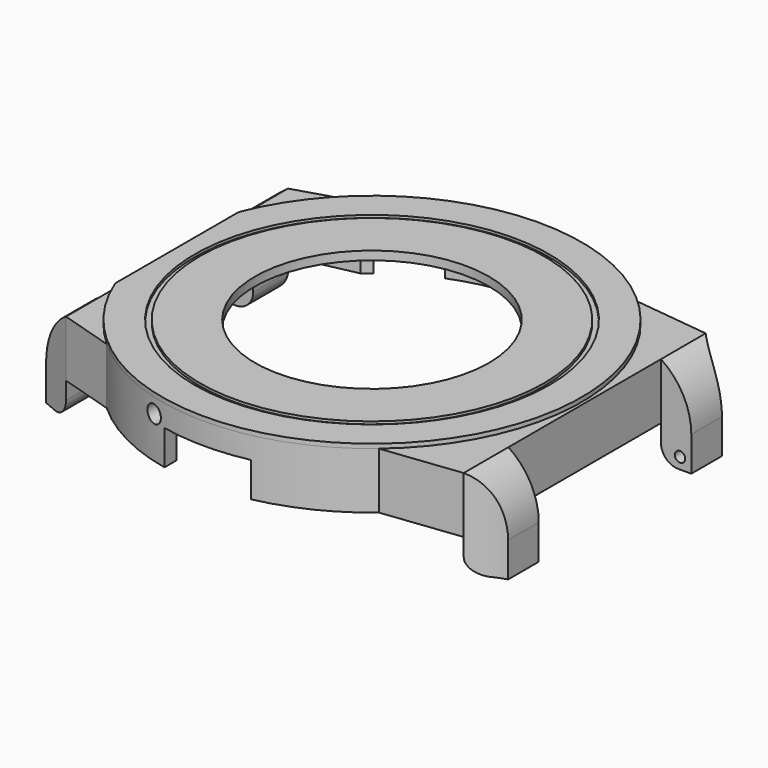
from build123d import *

# Parameters (mm, degrees)
PAD_DEPTH            = 6.5
POCKET_DEPTH         = 6
SKETCH002_R          = 13.5
POCKET001_DEPTH      = 1
SKETCH003_W          = 6.45
SKETCH003_H          = 6.5
PAD001_DEPTH         = 3.5
POCKET002_DEPTH      = 10
SKETCH010_W          = 5
SKETCH010_H          = 6.5
PAD002_DEPTH         = 3.5
POCKET005_DEPTH      = 10
SKETCH015_R          = 2.2
SKETCH015_R_2        = 1.025
PAD003_DEPTH         = 2
POCKET009_DEPTH      = 4
POCKET010_DEPTH      = 4
PAD004_DEPTH         = 4
POCKET013_DEPTH      = 13.201
POCKET013_DEPTH_BACK = 35.201
SKETCH022_R          = 0.6
POCKET014_DEPTH      = 2
SKETCH023_R          = 0.6
POCKET015_DEPTH      = 2
SKETCH024_R          = 13.5
PAD005_DEPTH         = 0.5
SKETCH025_R          = 20.45
SKETCH025_R_2        = 19.85
POCKET016_DEPTH      = 0.3
SKETCH026_R          = 1
POCKET017_DEPTH      = 5


with BuildPart() as part:
    # Sketch → Pad (new body)
    with BuildSketch(Plane.XY):
        with BuildLine():
            Line((-22.5019915649, 16), (-22.5019915649, -16))
            Line((-22.5019915649, -16), (-16.2858834578, -17.9))
            ThreePointArc((-16.2858834578, -17.9), (-0.4552796053, -24.1957169863), (15.6009615088, -18.5))
            Line((15.6009615088, -18.5), (24.5395016581, -17.45))
            Line((24.5395016581, 17.45), (24.5395016581, -17.45))
            Line((15.6009615088, 18.5), (24.5395016581, 17.45))
            ThreePointArc((15.6009615088, 18.5), (-0.4552796053, 24.1957169863), (-16.2858834578, 17.9))
            Line((-22.5019915649, 16), (-16.2858834578, 17.9))
        make_face()
    extrude(amount=PAD_DEPTH)

    # Sketch001 → Pocket (cut)
    with BuildSketch(Plane.XY):
        with BuildLine():
            Line((-14.8539557021, 16.9), (-21.2122180433, 15.55))
            Line((-21.2122180433, 15.55), (-21.2122180433, -15.55))
            Line((-21.2122180433, -15.55), (-14.8539557021, -16.9))
            ThreePointArc((-14.8539557021, -16.9), (-0.0760301383, -22.4998715423), (14.739402973, -17))
            Line((14.739402973, -17), (23.6191552218, -16.4))
            Line((23.6191552218, 16.4), (23.6191552218, -16.4))
            Line((14.739402973, 17), (23.6191552218, 16.4))
            ThreePointArc((14.739402973, 17), (-0.0760301383, 22.4998715423), (-14.8539557021, 16.9))
        make_face()
    extrude(amount=POCKET_DEPTH, mode=Mode.SUBTRACT)

    # Sketch002 (on Face19 of Pocket) → Pocket001 (cut)
    with BuildSketch(Plane(origin=(0, 0, 6), x_dir=(1, 0, 0), z_dir=(0, 0, -1))):
        Circle(SKETCH002_R)
    extrude(amount=-POCKET001_DEPTH, mode=Mode.SUBTRACT)

    # Sketch003 (on Face7 of Pad) → Pad001 (join)
    with BuildSketch(Plane.YZ.offset(24.5395016581)):
        with Locations((-14.225, 3.25)):
            Rectangle(SKETCH003_W, SKETCH003_H)
        with Locations((14.225, 3.25)):
            Rectangle(SKETCH003_W, SKETCH003_H)
    extrude(amount=PAD001_DEPTH)

    # Sketch006 (on Face22 of Pad001) → Pocket002 (cut)
    with BuildSketch(Plane.XY.offset(6.5)):
        with BuildLine():
            ThreePointArc((24.5395016581, 17.45), (26.1592830786, 16.2095505764), (28.0395016581, 15.4176006311))
            Line((28.0395016581, 17.45), (28.0395016581, 15.4176006311))
            Line((28.0395016581, 17.45), (24.5395016581, 17.45))
        make_face()
        with BuildLine():
            ThreePointArc((28.0395016581, -15.4176006311), (26.1592830786, -16.2095505765), (24.5395016581, -17.4500000001))
            Line((28.0395016581, -17.45), (24.5395016581, -17.4500000001))
            Line((28.0395016581, -15.4176006311), (28.0395016581, -17.45))
        make_face()
    extrude(amount=-POCKET002_DEPTH, mode=Mode.SUBTRACT)

    # Sketch010 (on Face3 of Pad) → Pad002 (join)
    with BuildSketch(Plane(origin=(-22.5019915649, 0, 0), x_dir=(0, -1, 0), z_dir=(-1, 0, 0))):
        with Locations((-13.5, 3.25)):
            Rectangle(SKETCH010_W, SKETCH010_H)
        with Locations((13.5, 3.25)):
            Rectangle(SKETCH010_W, SKETCH010_H)
    extrude(amount=PAD002_DEPTH)

    # Sketch011 (on Face28 of Pad002) → Pocket005 (cut)
    with BuildSketch(Plane.XY.offset(6.5)):
        Polygon((-26.0019915649, 16), (-22.5019915649, 16), (-26.0019915649, 14.5), align=None)
        Polygon((-22.5019915649, -16), (-26.0019915649, -14.5), (-26.0019915649, -16), align=None)
    extrude(amount=-POCKET005_DEPTH, mode=Mode.SUBTRACT)

    # Sketch015 (on Face19 of Pocket) → Pad003 (join)
    with BuildSketch(Plane(origin=(0, 0, 6), x_dir=(1, 0, 0), z_dir=(0, 0, -1))):
        with Locations((-18.42, 13.32)):
            Circle(SKETCH015_R)
        with Locations((-18.42, 13.32)):
            Circle(SKETCH015_R_2, mode=Mode.SUBTRACT)
        with Locations((7.27, 18.56)):
            Circle(SKETCH015_R)
        with Locations((7.27, 18.56)):
            Circle(SKETCH015_R_2, mode=Mode.SUBTRACT)
        with Locations((5.37, -19.79)):
            Circle(SKETCH015_R)
        with Locations((5.37, -19.79)):
            Circle(SKETCH015_R_2, mode=Mode.SUBTRACT)
        with Locations((-18.42, -13.32)):
            Circle(SKETCH015_R)
        with Locations((-18.42, -13.32)):
            Circle(SKETCH015_R_2, mode=Mode.SUBTRACT)
    extrude(amount=PAD003_DEPTH)

    # Sketch016 (on Face4 of Pocket) → Pocket009 (cut)
    with BuildSketch(Plane(origin=(0, 0, 0), x_dir=(1, 0, 0), z_dir=(0, 0, -1))):
        with BuildLine():
            Line((-4.9992330338, 23.6779996848), (-5.0007669662, 21.9372361465))
            ThreePointArc((5.0007669662, 21.9372361465), (0, 22.5), (-5.0007669662, 21.9372361465))
            Line((5.0007669662, 23.6776757675), (5.0007669662, 21.9372361465))
            ThreePointArc((5.0007669662, 23.6776757675), (0.00078388, 24.1999999873), (-4.9992330338, 23.6779996848))
        make_face()
    extrude(amount=-POCKET009_DEPTH, mode=Mode.SUBTRACT)

    # Sketch017 (on Face4 of Pocket) → Pocket010 (cut)
    with BuildSketch(Plane(origin=(0, 0, 0), x_dir=(1, 0, 0), z_dir=(0, 0, -1))):
        with BuildLine():
            ThreePointArc((-3.2541322314, -22.2634369184), (0, -22.5), (3.2541322314, -22.2634369184))
            Line((3.2541322314, -22.2634369184), (3.5, -23.9455632634))
            ThreePointArc((-3.5, -23.9455632634), (0, -24.2), (3.5, -23.9455632634))
            Line((-3.2541322314, -22.2634369184), (-3.5, -23.9455632634))
        make_face()
        with BuildLine():
            ThreePointArc((-13.9498796389, -17.6536358312), (-11.25, -19.4855715851), (-8.3135572795, -20.9077680626))
            Line((-8.3135572795, -20.9077680626), (-8.9416927184, -22.487466094))
            ThreePointArc((-15.0038705449, -18.987466094), (-12.1, -20.9578147716), (-8.9416927184, -22.487466094))
            Line((-13.9498796389, -17.6536358312), (-15.0038705449, -18.987466094))
        make_face()
        with BuildLine():
            ThreePointArc((8.3135572795, -20.9077680626), (11.25, -19.4855715851), (13.9498796389, -17.6536358312))
            Line((13.9498796389, -17.6536358312), (15.0038705449, -18.987466094))
            ThreePointArc((8.9416927184, -22.487466094), (12.1, -20.9578147716), (15.0038705449, -18.987466094))
            Line((8.3135572795, -20.9077680626), (8.9416927184, -22.487466094))
        make_face()
    extrude(amount=-POCKET010_DEPTH, mode=Mode.SUBTRACT)

    # Sketch018 (on Face8 of Pocket005) → Pad004 (join)
    with BuildSketch(Plane(origin=(0, 0, 0), x_dir=(1, 0, 0), z_dir=(0, 0, -1))):
        Polygon((-26.0019915649, 14.5), (-26.0019915649, 11), (-22.5019915649, 11), (-22.5019915649, 16), align=None)
        Polygon((-26.0019915649, -11), (-22.5019915649, -11), (-22.5019915649, -16), (-26.0019915649, -14.5), align=None)
        with BuildLine():
            Line((24.5395016581, 17.4500000001), (24.5395016581, 11))
            Line((28.0395016581, 11), (24.5395016581, 11))
            Line((28.0395016581, 15.4176006311), (28.0395016581, 11))
            ThreePointArc((24.5395016581, 17.4500000001), (26.1592830786, 16.2095505765), (28.0395016581, 15.4176006311))
        make_face()
        with BuildLine():
            Line((24.5395016581, -11), (24.5395016581, -17.45))
            ThreePointArc((28.0395016581, -15.4176006311), (26.1592830786, -16.2095505764), (24.5395016581, -17.45))
            Line((28.0395016581, -11), (28.0395016581, -15.4176006311))
            Line((24.5395016581, -11), (28.0395016581, -11))
        make_face()
    extrude(amount=PAD004_DEPTH)

    # Sketch021 (on Face50 of Pad004) → Pocket013 (cut, two sides)
    with BuildSketch(Plane(origin=(0, -11, 0), x_dir=(-1, 0, 0), z_dir=(0, 1, 0))) as pocket013_sk:
        with BuildLine():
            Line((-24.5395016581, -4), (-24.5395016581, -2))
            ThreePointArc((-26.5395016581, -4), (-25.1252880957, -3.4142135624), (-24.5395016581, -2))
            Line((-24.5395016581, -4), (-26.5395016581, -4))
        make_face()
        with BuildLine():
            Line((22.5019915649, -4), (22.5019915649, -2))
            ThreePointArc((22.5019915649, -2), (23.0877780026, -3.4142135624), (24.5019915649, -4))
            Line((22.5019915649, -4), (24.5019915649, -4))
        make_face()
        with BuildLine():
            Line((-28.0395016581, 0), (-28.0395016581, 6.5))
            Line((-28.0395016581, 6.5), (-24.5395016581, 6.5))
            ThreePointArc((-24.5395016581, 6.5), (-27.1088837932, 3.6912057651), (-28.0395016581, 0))
        make_face()
        with BuildLine():
            Line((26.0019915649, 6.5), (26.0019915649, 0))
            ThreePointArc((26.0019915649, 0), (25.0713737, 3.6912057651), (22.5019915649, 6.5))
            Line((26.0019915649, 6.5), (22.5019915649, 6.5))
        make_face()
    extrude(amount=-POCKET013_DEPTH, mode=Mode.SUBTRACT)
    extrude(pocket013_sk.sketch, amount=POCKET013_DEPTH_BACK, mode=Mode.SUBTRACT)

    # Sketch022 (on Face66 of Pocket013) → Pocket014 (cut)
    with BuildSketch(Plane.XZ.offset(-11)):
        with Locations((-24.7019915649, -2.7)):
            Circle(SKETCH022_R)
        with Locations((26.7395016581, -2.7)):
            Circle(SKETCH022_R)
    extrude(amount=-POCKET014_DEPTH, mode=Mode.SUBTRACT)

    # Sketch023 (on Face49 of Pocket014) → Pocket015 (cut)
    with BuildSketch(Plane(origin=(0, -11, 0), x_dir=(-1, 0, 0), z_dir=(0, 1, 0))):
        with Locations((-26.7395016581, -2.7)):
            Circle(SKETCH023_R)
        with Locations((24.7019915649, -2.7)):
            Circle(SKETCH023_R)
    extrude(amount=-POCKET015_DEPTH, mode=Mode.SUBTRACT)

    # Sketch024 (on Face16 of Pocket015) → Pad005 (join)
    with BuildSketch(Plane.XY.offset(6.5)):
        with BuildLine():
            ThreePointArc((-22.5019915649, -8.9050758341), (24.2, 0), (-22.5019915649, 8.9050758341))
            Line((-22.5019915649, 8.9050758341), (-22.5019915649, -8.9050758341))
        make_face()
        Circle(SKETCH024_R, mode=Mode.SUBTRACT)
    extrude(amount=PAD005_DEPTH)

    # Sketch025 (on Face42 of Pad005) → Pocket016 (cut)
    with BuildSketch(Plane.XY.offset(7)):
        Circle(SKETCH025_R)
        Circle(SKETCH025_R_2, mode=Mode.SUBTRACT)
    extrude(amount=-POCKET016_DEPTH, mode=Mode.SUBTRACT)

    # Sketch026 (on DatumPlane) → Pocket017 (cut)
    with BuildSketch(Plane.XZ.offset(25)):
        with Locations((-6.5, 4.8)):
            Circle(SKETCH026_R)
    extrude(amount=-POCKET017_DEPTH, mode=Mode.SUBTRACT)


solid = part.part
